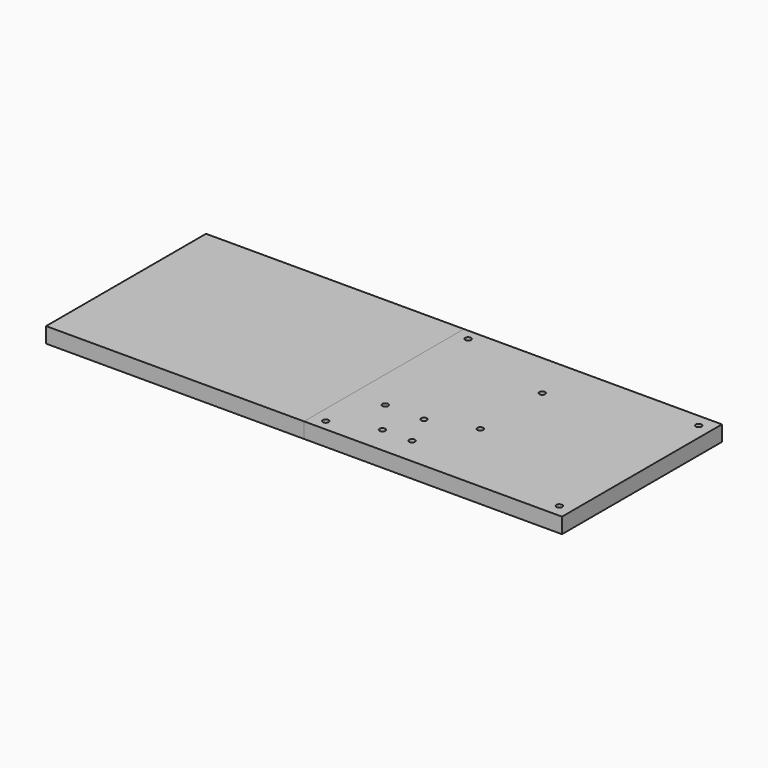
from build123d import *

# Parameters (mm, degrees)
SKETCH_W     = 400
SKETCH_H     = 155
SKETCH_R     = 2.25
PAD_DEPTH    = 12
SKETCH001_R  = 3.75
POCKET_DEPTH = 3.5
BOX_W        = 200
BOX_H        = 155
BOX_DEPTH    = 12


with BuildPart() as body:
    # Sketch → Pad (new body)
    with BuildSketch(Plane.XY):
        with Locations((200, 77.5)):
            Rectangle(SKETCH_W, SKETCH_H)
        with Locations((190, 8.5)):
            Circle(SKETCH_R, mode=Mode.SUBTRACT)
        with Locations((190, 146.5)):
            Circle(SKETCH_R, mode=Mode.SUBTRACT)
        with Locations((210, 8.5)):
            Circle(SKETCH_R, mode=Mode.SUBTRACT)
        with Locations((210, 146.5)):
            Circle(SKETCH_R, mode=Mode.SUBTRACT)
        with Locations((25, 37.5)):
            Circle(SKETCH_R, mode=Mode.SUBTRACT)
        with Locations((25, 117.5)):
            Circle(SKETCH_R, mode=Mode.SUBTRACT)
        with Locations((100, 22.5)):
            Circle(SKETCH_R, mode=Mode.SUBTRACT)
        with Locations((100, 132.5)):
            Circle(SKETCH_R, mode=Mode.SUBTRACT)
        with Locations((190, 60.5)):
            Circle(SKETCH_R, mode=Mode.SUBTRACT)
        with Locations((190, 94.5)):
            Circle(SKETCH_R, mode=Mode.SUBTRACT)
        with Locations((390, 10)):
            Circle(SKETCH_R, mode=Mode.SUBTRACT)
        with Locations((390, 145)):
            Circle(SKETCH_R, mode=Mode.SUBTRACT)
        with Locations((225, 47.5)):
            Circle(SKETCH_R, mode=Mode.SUBTRACT)
        with Locations((255, 47.5)):
            Circle(SKETCH_R, mode=Mode.SUBTRACT)
        with Locations((244, 21)):
            Circle(SKETCH_R, mode=Mode.SUBTRACT)
        with Locations((267, 21)):
            Circle(SKETCH_R, mode=Mode.SUBTRACT)
        with Locations((289.5, 59)):
            Circle(SKETCH_R, mode=Mode.SUBTRACT)
        with Locations((289.5, 119)):
            Circle(SKETCH_R, mode=Mode.SUBTRACT)
    extrude(amount=PAD_DEPTH)

    # Sketch001 (on Face23 of Pad) → Pocket (cut)
    with BuildSketch(Plane(origin=(0, 0, 0), x_dir=(1, 0, 0), z_dir=(0, 0, -1))):
        with Locations((390, -145)):
            Circle(SKETCH001_R)
        with Locations((390, -10)):
            Circle(SKETCH001_R)
        Polygon((29.041452, -37.5), (27.020726, -34), (22.979274, -34), (20.958548, -37.5), (22.979274, -41), (27.020726, -41), align=None)
        Polygon((102.020726, -26), (104.041452, -22.5), (102.020726, -19), (97.979274, -19), (95.958548, -22.5), (97.979274, -26), align=None)
        Polygon((194.041452, -60.5), (192.020726, -57), (187.979274, -57), (185.958548, -60.5), (187.979274, -64), (192.020726, -64), align=None)
        Polygon((27.020726, -114), (22.979274, -114), (20.958548, -117.5), (22.979274, -121), (27.020726, -121), (29.041452, -117.5), align=None)
        Polygon((192.020726, -5), (187.979274, -5), (185.958548, -8.5), (187.979274, -12), (192.020726, -12), (194.041452, -8.5), align=None)
        Polygon((102.020726, -129), (97.979274, -129), (95.958548, -132.5), (97.979274, -136), (102.020726, -136), (104.041452, -132.5), align=None)
        Polygon((192.020726, -91), (187.979274, -91), (185.958548, -94.5), (187.979274, -98), (192.020726, -98), (194.041452, -94.5), align=None)
        Polygon((192.020726, -143), (187.979274, -143), (185.958548, -146.5), (187.979274, -150), (192.020726, -150), (194.041452, -146.5), align=None)
        Polygon((212.020726, -12), (214.041452, -8.5), (212.020726, -5), (207.979274, -5), (205.958548, -8.5), (207.979274, -12), align=None)
        Polygon((212.020726, -143), (207.979274, -143), (205.958548, -146.5), (207.979274, -150), (212.020726, -150), (214.041452, -146.5), align=None)
        Polygon((248.041452, -21), (246.020726, -17.5), (241.979274, -17.5), (239.958548, -21), (241.979274, -24.5), (246.020726, -24.5), align=None)
        Polygon((271.041452, -21), (269.020726, -17.5), (264.979274, -17.5), (262.958548, -21), (264.979274, -24.5), (269.020726, -24.5), align=None)
        Polygon((229.041452, -47.5), (227.020726, -44), (222.979274, -44), (220.958548, -47.5), (222.979274, -51), (227.020726, -51), align=None)
        Polygon((259.041452, -47.5), (257.020726, -44), (252.979274, -44), (250.958548, -47.5), (252.979274, -51), (257.020726, -51), align=None)
        Polygon((293.541452, -59), (291.520726, -55.5), (287.479274, -55.5), (285.458548, -59), (287.479274, -62.5), (291.520726, -62.5), align=None)
        Polygon((291.520726, -115.5), (287.479274, -115.5), (285.458548, -119), (287.479274, -122.5), (291.520726, -122.5), (293.541452, -119), align=None)
    extrude(amount=-POCKET_DEPTH, mode=Mode.SUBTRACT)


with BuildPart() as cube:
    # Box → Box (new body)
    with BuildSketch(Plane.XY):
        with Locations((100, 77.5)):
            Rectangle(BOX_W, BOX_H)
    extrude(amount=BOX_DEPTH)


solid = Compound([body.part, cube.part])
